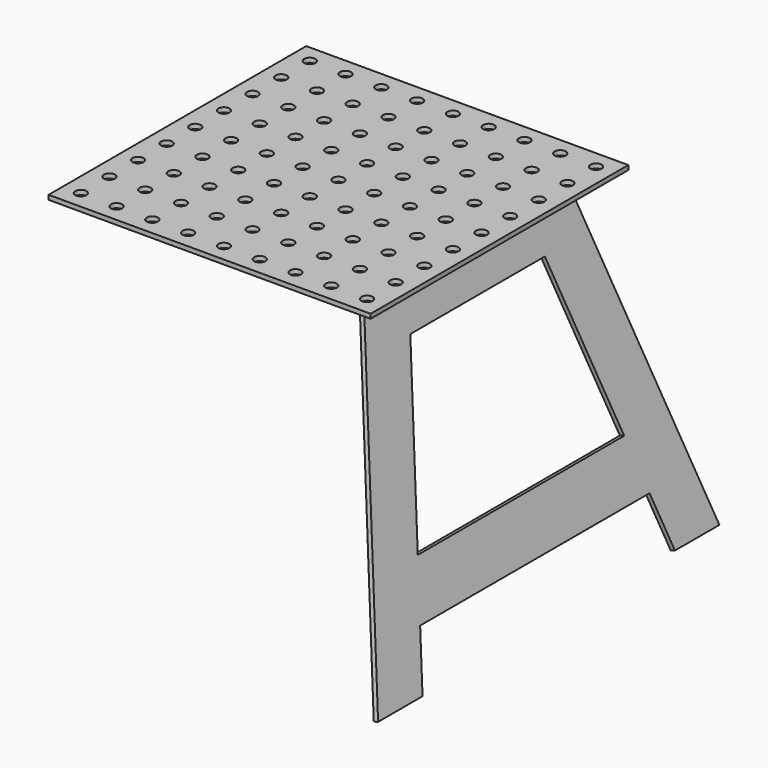
from build123d import *

# Parameters (mm, degrees)
F0_W      = 457.2
F0_H      = 457.2
F1_DEPTH  = 6.35
F2_R      = 7.9375
F3_DEPTH  = 6.35
F9_DEPTH  = 6.35
F11_DEPTH = 6.35


with BuildPart() as f1:
    # F0 (on Top) → F1 (new body)
    with BuildSketch(Plane.XY):
        Rectangle(F0_W, F0_H)
    extrude(amount=F1_DEPTH)

    # F2 (on face) → F3 (cut, through all)
    with BuildSketch(Plane.XY.offset(6.35)):
        with Locations((-203.2, 203.2)):
            Circle(F2_R)
        with Locations((-203.2, 152.4)):
            Circle(F2_R)
        with Locations((-203.2, 101.6)):
            Circle(F2_R)
        with Locations((-203.2, 50.8)):
            Circle(F2_R)
        with Locations((-203.2, 0)):
            Circle(F2_R)
        with Locations((-203.2, -50.8)):
            Circle(F2_R)
        with Locations((-203.2, -101.6)):
            Circle(F2_R)
        with Locations((-203.2, -152.4)):
            Circle(F2_R)
        with Locations((-203.2, -203.2)):
            Circle(F2_R)
        with Locations((-152.4, 203.2)):
            Circle(F2_R)
        with Locations((-152.4, 152.4)):
            Circle(F2_R)
        with Locations((-152.4, 101.6)):
            Circle(F2_R)
        with Locations((-152.4, 50.8)):
            Circle(F2_R)
        with Locations((-152.4, 0)):
            Circle(F2_R)
        with Locations((-152.4, -50.8)):
            Circle(F2_R)
        with Locations((-152.4, -101.6)):
            Circle(F2_R)
        with Locations((-152.4, -152.4)):
            Circle(F2_R)
        with Locations((-152.4, -203.2)):
            Circle(F2_R)
        with Locations((-101.6, 203.2)):
            Circle(F2_R)
        with Locations((-101.6, 152.4)):
            Circle(F2_R)
        with Locations((-101.6, 101.6)):
            Circle(F2_R)
        with Locations((-101.6, 50.8)):
            Circle(F2_R)
        with Locations((-101.6, 0)):
            Circle(F2_R)
        with Locations((-101.6, -50.8)):
            Circle(F2_R)
        with Locations((-101.6, -101.6)):
            Circle(F2_R)
        with Locations((-101.6, -152.4)):
            Circle(F2_R)
        with Locations((-101.6, -203.2)):
            Circle(F2_R)
        with Locations((-50.8, 203.2)):
            Circle(F2_R)
        with Locations((-50.8, 152.4)):
            Circle(F2_R)
        with Locations((-50.8, 101.6)):
            Circle(F2_R)
        with Locations((-50.8, 50.8)):
            Circle(F2_R)
        with Locations((-50.8, 0)):
            Circle(F2_R)
        with Locations((-50.8, -50.8)):
            Circle(F2_R)
        with Locations((-50.8, -101.6)):
            Circle(F2_R)
        with Locations((-50.8, -152.4)):
            Circle(F2_R)
        with Locations((-50.8, -203.2)):
            Circle(F2_R)
        with Locations((0, 203.2)):
            Circle(F2_R)
        with Locations((0, 152.4)):
            Circle(F2_R)
        with Locations((0, 101.6)):
            Circle(F2_R)
        with Locations((0, 50.8)):
            Circle(F2_R)
        Circle(F2_R)
        with Locations((0, -50.8)):
            Circle(F2_R)
        with Locations((0, -101.6)):
            Circle(F2_R)
        with Locations((0, -152.4)):
            Circle(F2_R)
        with Locations((0, -203.2)):
            Circle(F2_R)
        with Locations((50.8, 203.2)):
            Circle(F2_R)
        with Locations((50.8, 152.4)):
            Circle(F2_R)
        with Locations((50.8, 101.6)):
            Circle(F2_R)
        with Locations((50.8, 50.8)):
            Circle(F2_R)
        with Locations((50.8, 0)):
            Circle(F2_R)
        with Locations((50.8, -50.8)):
            Circle(F2_R)
        with Locations((50.8, -101.6)):
            Circle(F2_R)
        with Locations((50.8, -152.4)):
            Circle(F2_R)
        with Locations((50.8, -203.2)):
            Circle(F2_R)
        with Locations((101.6, 203.2)):
            Circle(F2_R)
        with Locations((101.6, 152.4)):
            Circle(F2_R)
        with Locations((101.6, 101.6)):
            Circle(F2_R)
        with Locations((101.6, 50.8)):
            Circle(F2_R)
        with Locations((101.6, 0)):
            Circle(F2_R)
        with Locations((101.6, -50.8)):
            Circle(F2_R)
        with Locations((101.6, -101.6)):
            Circle(F2_R)
        with Locations((101.6, -152.4)):
            Circle(F2_R)
        with Locations((101.6, -203.2)):
            Circle(F2_R)
        with Locations((152.4, 203.2)):
            Circle(F2_R)
        with Locations((152.4, 152.4)):
            Circle(F2_R)
        with Locations((152.4, 101.6)):
            Circle(F2_R)
        with Locations((152.4, 50.8)):
            Circle(F2_R)
        with Locations((152.4, 0)):
            Circle(F2_R)
        with Locations((152.4, -50.8)):
            Circle(F2_R)
        with Locations((152.4, -101.6)):
            Circle(F2_R)
        with Locations((152.4, -152.4)):
            Circle(F2_R)
        with Locations((152.4, -203.2)):
            Circle(F2_R)
        with Locations((203.2, 203.2)):
            Circle(F2_R)
        with Locations((203.2, 152.4)):
            Circle(F2_R)
        with Locations((203.2, 101.6)):
            Circle(F2_R)
        with Locations((203.2, 50.8)):
            Circle(F2_R)
        with Locations((203.2, 0)):
            Circle(F2_R)
        with Locations((203.2, -50.8)):
            Circle(F2_R)
        with Locations((203.2, -101.6)):
            Circle(F2_R)
        with Locations((203.2, -152.4)):
            Circle(F2_R)
        with Locations((203.2, -203.2)):
            Circle(F2_R)
    extrude(amount=-F3_DEPTH, mode=Mode.SUBTRACT)


with BuildPart() as f9:
    # F8 (on face) → F9 (new body)
    with BuildSketch(Plane(origin=(165.889658, 0, 44.45), x_dir=(0, -1, 0), z_dir=(-0.965926, 0, -0.258819))):
        Polygon((302.866429, -512.772292), (177.8, -46.018026), (-177.8, -46.018026), (-302.866429, -512.772292), align=None)
    extrude(amount=F9_DEPTH)

    # F10 (on face) → F11 (cut, through all)
    with BuildSketch(Plane(origin=(165.889658, 0, 44.45), x_dir=(0, -1, 0), z_dir=(-0.965926, 0, -0.258819))):
        Polygon((183.142927, -360.372292), (119.329684, -122.218026), (-119.329684, -122.218026), (-183.142927, -360.372292), align=None)
        Polygon((203.560655, -436.572292), (-203.560655, -436.572292), (-223.978384, -512.772292), (223.978384, -512.772292), align=None)
    extrude(amount=F11_DEPTH, mode=Mode.SUBTRACT)


solid = Compound([f1.part, f9.part])
